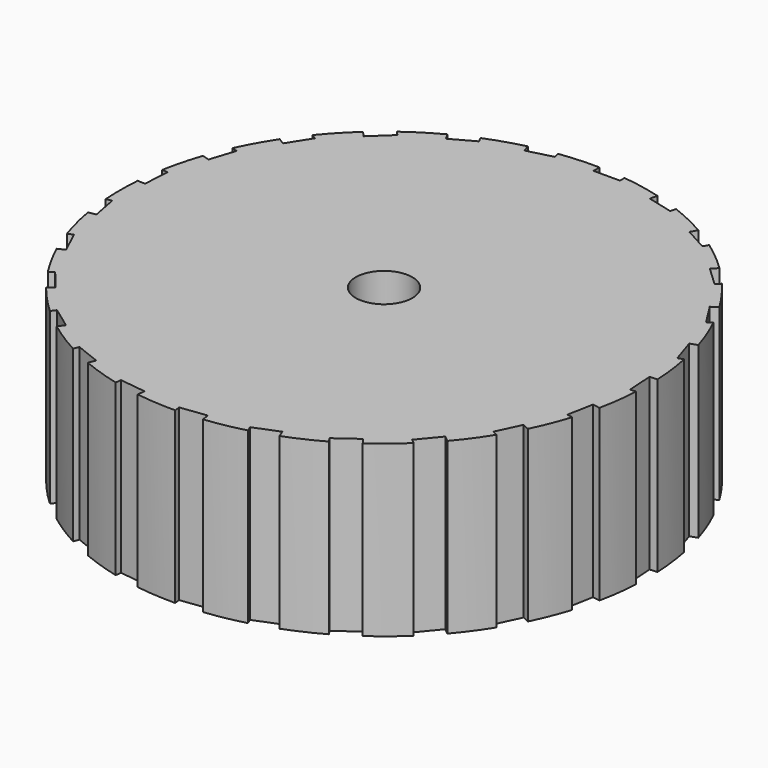
from build123d import *

# Parameters (mm, degrees)
F1_DEPTH = 2.25
F2_R     = 0.375
F3_DEPTH = 2.251


with BuildPart() as f1:
    # F0 (on Top) → F1 (new body)
    with BuildSketch(Plane.XY):
        with BuildLine():
            Line((3.396481, 0.154959), (3.496284, 0.161238))
            ThreePointArc((3.496284, 0.161238), (3.474149, 0.424604), (3.432204, 0.685549))
            Line((3.432204, 0.685549), (3.359394, 0.661892))
            Line((3.359394, 0.661892), (3.251238, 0.994762))
            Line((3.251238, 0.994762), (3.346343, 1.025663))
            ThreePointArc((3.346343, 1.025663), (3.259407, 1.27525), (3.153886, 1.517566))
            Line((3.153886, 1.517566), (3.089246, 1.476545))
            Line((3.089246, 1.476545), (2.901707, 1.772059))
            Line((2.901707, 1.772059), (2.98614, 1.825642))
            ThreePointArc((2.98614, 1.825642), (2.839865, 2.045768), (2.677397, 2.254228))
            Line((2.677397, 2.254228), (2.62499, 2.198421))
            Line((2.62499, 2.198421), (2.369851, 2.438012))
            Line((2.369851, 2.438012), (2.438306, 2.510909))
            ThreePointArc((2.438306, 2.510909), (2.241884, 2.687742), (2.032678, 2.849249))
            Line((2.032678, 2.849249), (1.995797, 2.782162))
            Line((1.995797, 2.782162), (1.689089, 2.950775))
            Line((1.689089, 2.950775), (1.737265, 3.038406))
            ThreePointArc((1.737265, 3.038406), (1.503037, 3.160835), (1.260238, 3.265241))
            Line((1.260238, 3.265241), (1.241199, 3.191089))
            Line((1.241199, 3.191089), (0.902195, 3.278131))
            Line((0.902195, 3.278131), (0.927064, 3.374989))
            ThreePointArc((0.927064, 3.374989), (0.669748, 3.435322), (0.408613, 3.476066))
            Line((0.408613, 3.476066), (0.408613, 3.399509))
            Line((0.408613, 3.399509), (0.058613, 3.399509))
            Line((0.058613, 3.399509), (0.058613, 3.499509))
            ThreePointArc((0.058613, 3.499509), (-0.205623, 3.493955), (-0.468687, 3.468477))
            Line((-0.468687, 3.468477), (-0.449648, 3.394325))
            Line((-0.449648, 3.394325), (-0.788652, 3.307284))
            Line((-0.788652, 3.307284), (-0.813521, 3.404142))
            ThreePointArc((-0.813521, 3.404142), (-1.068074, 3.333049), (-1.316537, 3.242951))
            Line((-1.316537, 3.242951), (-1.279656, 3.175864))
            Line((-1.279656, 3.175864), (-1.586363, 3.00725))
            Line((-1.586363, 3.00725), (-1.634538, 3.09488))
            ThreePointArc((-1.634538, 3.09488), (-1.863414, 2.962716), (-2.081665, 2.813658))
            Line((-2.081665, 2.813658), (-2.029258, 2.757851))
            Line((-2.029258, 2.757851), (-2.284397, 2.518259))
            Line((-2.284397, 2.518259), (-2.352852, 2.591156))
            ThreePointArc((-2.352852, 2.591156), (-2.541669, 2.406225), (-2.715994, 2.207573))
            Line((-2.715994, 2.207573), (-2.651355, 2.166552))
            Line((-2.651355, 2.166552), (-2.838894, 1.871037))
            Line((-2.838894, 1.871037), (-2.923327, 1.92462))
            ThreePointArc((-2.923327, 1.92462), (-3.060222, 1.698541), (-3.179667, 1.462778))
            Line((-3.179667, 1.462778), (-3.106857, 1.43912))
            Line((-3.106857, 1.43912), (-3.215013, 1.106251))
            Line((-3.215013, 1.106251), (-3.310119, 1.137152))
            ThreePointArc((-3.310119, 1.137152), (-3.386489, 0.884132), (-3.44355, 0.626071))
            Line((-3.44355, 0.626071), (-3.367144, 0.621264))
            Line((-3.367144, 0.621264), (-3.389121, 0.271954))
            Line((-3.389121, 0.271954), (-3.488923, 0.278234))
            ThreePointArc((-3.488923, 0.278234), (-3.499971, 0.01417), (-3.491062, -0.249974))
            Line((-3.491062, -0.249974), (-3.415861, -0.235629))
            Line((-3.415861, -0.235629), (-3.350278, -0.579429))
            Line((-3.350278, -0.579429), (-3.448506, -0.598168))
            ThreePointArc((-3.448506, -0.598168), (-3.393537, -0.856683), (-3.319218, -1.110313))
            Line((-3.319218, -1.110313), (-3.249947, -1.077716))
            Line((-3.249947, -1.077716), (-3.100924, -1.394406))
            Line((-3.100924, -1.394406), (-3.191407, -1.436984))
            ThreePointArc((-3.191407, -1.436984), (-3.073875, -1.673707), (-2.938815, -1.900886))
            Line((-2.938815, -1.900886), (-2.879827, -1.852087))
            Line((-2.879827, -1.852087), (-2.656728, -2.121766))
            Line((-2.656728, -2.121766), (-2.73378, -2.185509))
            ThreePointArc((-2.73378, -2.185509), (-2.561069, -2.385566), (-2.373755, -2.57202))
            Line((-2.373755, -2.57202), (-2.328756, -2.510084))
            Line((-2.328756, -2.510084), (-2.0456, -2.715809))
            Line((-2.0456, -2.715809), (-2.104379, -2.79671))
            ThreePointArc((-2.104379, -2.79671), (-1.887343, -2.947531), (-1.659544, -3.081544))
            Line((-1.659544, -3.081544), (-1.631362, -3.010363))
            Line((-1.631362, -3.010363), (-1.30594, -3.139207))
            Line((-1.30594, -3.139207), (-1.342752, -3.232184))
            ThreePointArc((-1.342752, -3.232184), (-1.095027, -3.324292), (-0.841058, -3.397443))
            Line((-0.841058, -3.397443), (-0.831463, -3.32149))
            Line((-0.831463, -3.32149), (-0.484223, -3.365357))
            Line((-0.484223, -3.365357), (-0.496756, -3.464568))
            ThreePointArc((-0.496756, -3.464568), (-0.233907, -3.492175), (0.030275, -3.499869))
            Line((0.030275, -3.499869), (0.02068, -3.423916))
            Line((0.02068, -3.423916), (0.36792, -3.380049))
            Line((0.36792, -3.380049), (0.380454, -3.479261))
            ThreePointArc((0.380454, -3.479261), (0.64191, -3.440632), (0.899706, -3.382385))
            Line((0.899706, -3.382385), (0.871524, -3.311204))
            Line((0.871524, -3.311204), (1.196946, -3.182361))
            Line((1.196946, -3.182361), (1.233758, -3.275338))
            ThreePointArc((1.233758, -3.275338), (1.477394, -3.172902), (1.712605, -3.052373))
            Line((1.712605, -3.052373), (1.667606, -2.990438))
            Line((1.667606, -2.990438), (1.950762, -2.784713))
            Line((1.950762, -2.784713), (2.009541, -2.865614))
            ThreePointArc((2.009541, -2.865614), (2.220047, -2.705807), (2.417895, -2.53057))
            Line((2.417895, -2.53057), (2.358907, -2.481771))
            Line((2.358907, -2.481771), (2.582005, -2.212091))
            Line((2.582005, -2.212091), (2.659057, -2.275833))
            ThreePointArc((2.659057, -2.275833), (2.823207, -2.068695), (2.97126, -1.849761))
            Line((2.97126, -1.849761), (2.901989, -1.817165))
            Line((2.901989, -1.817165), (3.051012, -1.500475))
            Line((3.051012, -1.500475), (3.141494, -1.543053))
            ThreePointArc((3.141494, -1.543053), (3.248975, -1.3016), (3.337929, -1.052725))
            Line((3.337929, -1.052725), (3.262728, -1.03838))
            Line((3.262728, -1.03838), (3.328312, -0.69458))
            Line((3.328312, -0.69458), (3.42654, -0.713318))
            ThreePointArc((3.42654, -0.713318), (3.470597, -0.452721), (3.494864, -0.189543))
            Line((3.494864, -0.189543), (3.418458, -0.19435))
            Line((3.418458, -0.19435), (3.396481, 0.154959))
        make_face()
    extrude(amount=F1_DEPTH)

    # F2 (on face) → F3 (cut, through all)
    with BuildSketch(Plane.XY.offset(2.25)):
        Circle(F2_R)
    extrude(amount=-F3_DEPTH, mode=Mode.SUBTRACT)


solid = f1.part
